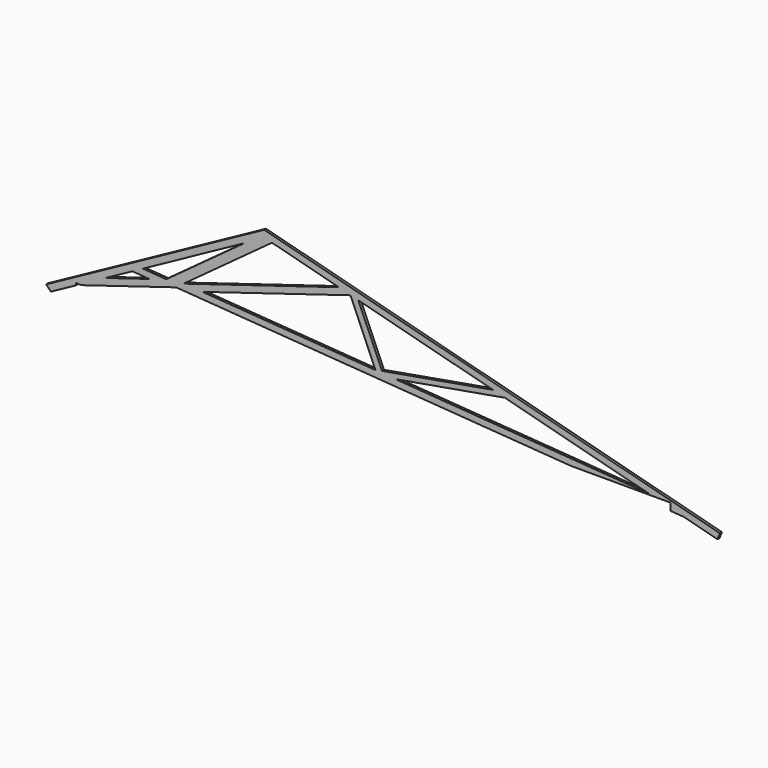
from build123d import *

# Parameters (mm, degrees)
F1_DEPTH = 38.1


with BuildPart() as f1:
    # F0 (on Front) → F1 (new body)
    with BuildSketch(Plane.XZ):
        Polygon((3352.8, 1828.8), (0, 0), (73.055707, -74.725424), (458.056068, 135.274773), (458.056068, 166.9511), (547.665105, 166.9511), (1999.727153, 609.6), (8072.696403, 166.9511), (9599.500782, 166.9511), (9599.500782, 55.6648), (9810.218107, 40.305955), (10363.2, 0), align=None)
        Polygon((1587.847828, 589.195801), (913.199944, 383.535069), (1325.325179, 608.330652), align=None, mode=Mode.SUBTRACT)
        Polygon((9273.723809, 180.260989), (5374.142605, 464.495152), (7055.153554, 759.018447), align=None, mode=Mode.SUBTRACT)
        Polygon((1849.294228, 670.990229), (1488.423727, 697.293496), (3040.917389, 1544.10822), align=None, mode=Mode.SUBTRACT)
        Polygon((5065.629502, 486.982173), (2405.910722, 680.84477), (4681.551556, 1374.554735), align=None, mode=Mode.SUBTRACT)
        Polygon((4502.149906, 1425.019399), (2114.923449, 697.293496), (3474.126436, 1693.199435), align=None, mode=Mode.SUBTRACT)
        Polygon((5166.1671, 507.918901), (4803.308018, 1346.456413), (6872.014866, 806.793757), align=None, mode=Mode.SUBTRACT)
        Polygon((10325.565565, -94.132512), (10363.2, 0), (9810.218107, 40.305955), align=None)
    extrude(amount=F1_DEPTH)


solid = f1.part
